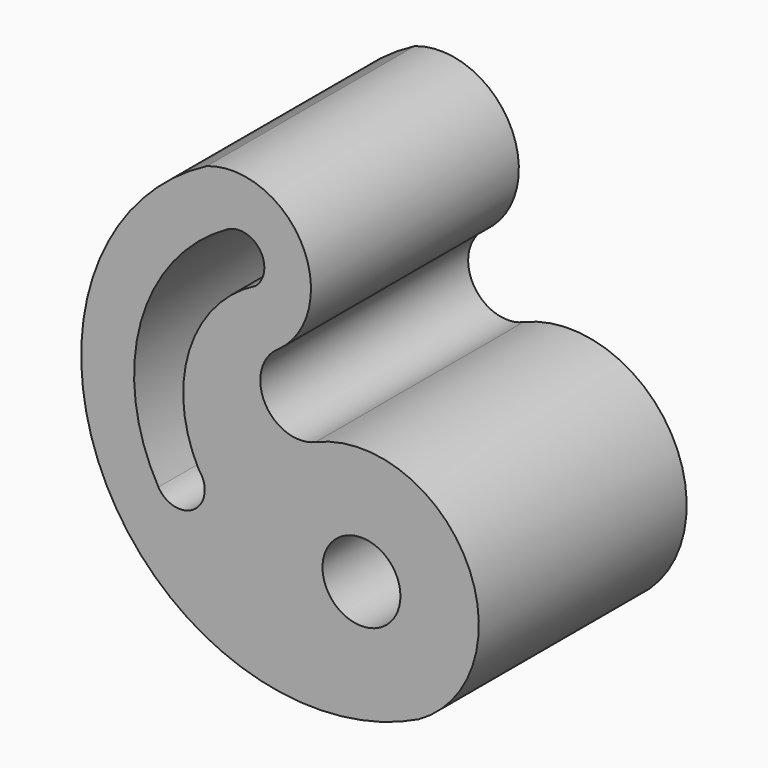
from build123d import *

# Parameters (mm, degrees)
F0_R     = 3.75
F1_DEPTH = 25


with BuildPart() as f1:
    # F0 (on Front) → F1 (new body)
    with BuildSketch(Plane.XZ):
        with BuildLine():
            ThreePointArc((-3.687133, 6.631791), (-1.261675, 16.254194), (-10.458811, 19.98061))
            ThreePointArc((-10.458811, 19.98061), (-20.116846, -10.194312), (9.928039, -20.249581))
            ThreePointArc((9.928039, -20.249581), (14.551605, -5.424153), (0, 0))
            ThreePointArc((0, 0), (-4.843186, 1.648172), (-3.687133, 6.631791))
        make_face()
        with Locations((4.411765, -10.395552)):
            Circle(F0_R, mode=Mode.SUBTRACT)
        with BuildLine():
            ThreePointArc((-15.125077, -8.732467), (-16.832718, 4.656561), (-8.486655, 15.264359))
            ThreePointArc((-8.486655, 15.264359), (-5.362808, 14.54318), (-5.761589, 11.362066))
            ThreePointArc((-5.761589, 11.362066), (-12.145384, 3.84475), (-11.250375, -5.976748))
            ThreePointArc((-11.250375, -5.976748), (-11.672928, -9.484503), (-15.125077, -8.732467))
        make_face(mode=Mode.SUBTRACT)
    extrude(amount=F1_DEPTH)


solid = f1.part
